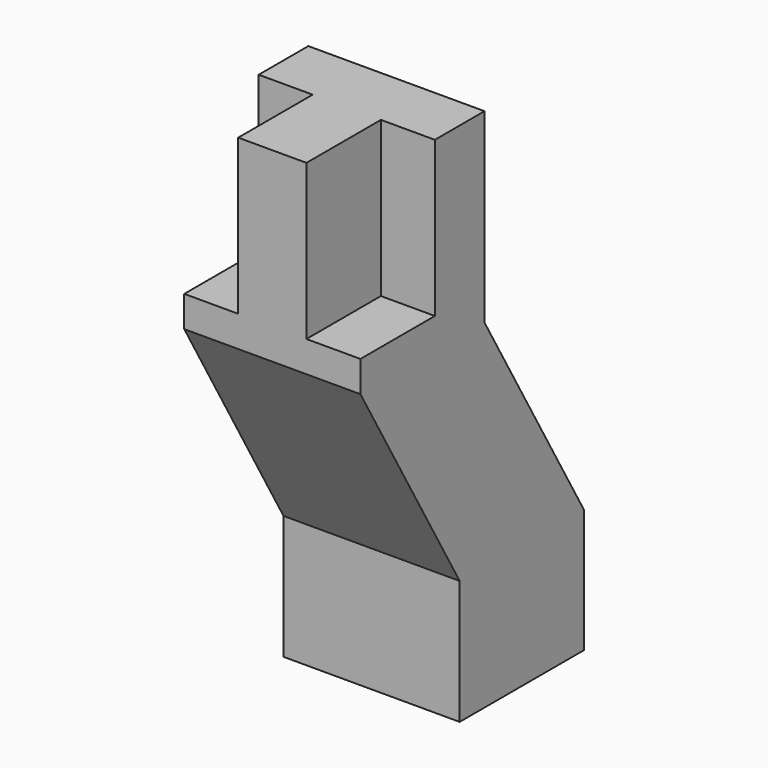
from build123d import *

# Parameters (mm, degrees)
F1_DEPTH = 25
F2_W     = 28.4
F2_H     = 25
F3_DEPTH = 5
F5_DEPTH = 28.4


with BuildPart() as f1:
    # F0 (on Top) → F1 (new body)
    with BuildSketch(Plane.XY):
        Polygon((-5.5, 2.5), (-5.5, -12.5), (5.5, -12.5), (5.5, 2.5), (14.2, 2.5), (14.2, 12.5), (-14.2, 12.5), (-14.2, 2.5), align=None)
    extrude(amount=-F1_DEPTH)

    # F2 (on face) → F3 (join)
    with BuildSketch(Plane(origin=(0, 0, -25), x_dir=(1, 0, 0), z_dir=(0, 0, -1))):
        Rectangle(F2_W, F2_H)
    extrude(amount=F3_DEPTH)

    # F4 (on face) → F5 (join)
    with BuildSketch(Plane.YZ.offset(14.2)):
        Polygon((32.5, -64.6410161514), (12.5, -30), (-12.5, -30), (7.5, -64.6410161514), (7.5, -84.6410161514), (32.5, -84.6410161514), align=None)
    extrude(amount=-F5_DEPTH)


solid = f1.part
